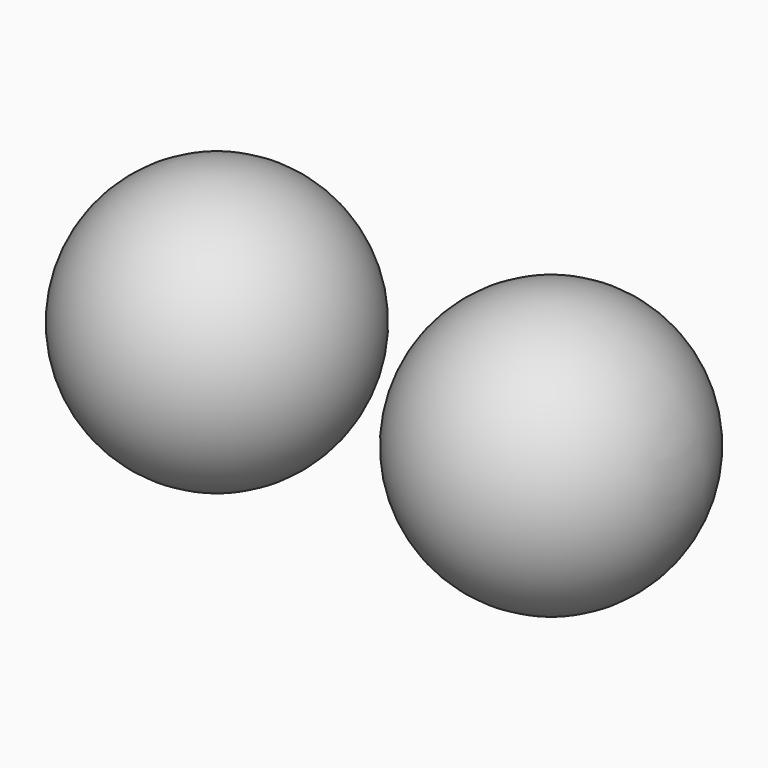
from build123d import *


with BuildPart() as f1:
    # F0 (on Front) → F1 (revolve)
    with BuildSketch(Plane.XZ):
        with BuildLine():
            Line((-10, 18), (-10, 34))
            ThreePointArc((-10, 34), (-18, 26), (-10, 18))
        make_face()
    revolve(axis=Axis((-10, 0, 26), (0, 0, -1)))


with BuildPart() as f2:
    # F0 (on Front) → F2 (revolve)
    with BuildSketch(Plane.XZ):
        with BuildLine():
            ThreePointArc((10, 18), (18, 26), (10, 34))
            Line((10, 34), (10, 18))
        make_face()
    revolve(axis=Axis((10, 0, 26), (0, 0, -1)))


solid = Compound([f1.part, f2.part])
